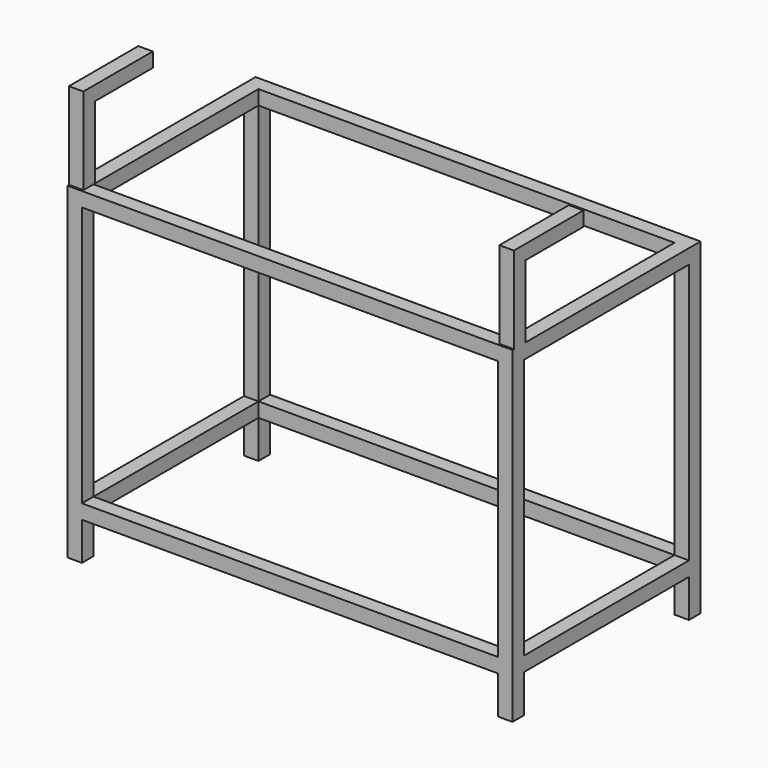
from build123d import *

# Parameters (mm, degrees)
F0_W          = 40
F0_H          = 40
F1_DEPTH      = 760
F1_DEPTH_BACK = 145
F2_W          = 1150
F2_H          = 40
F2_W_2        = 40
F2_H_2        = 565
F2_H_3        = 5
F3_DEPTH      = 40
F0_W_2        = 1150
F0_H_2        = 570
F4_DEPTH      = 40
F2_H_4        = 35
F5_DEPTH      = 240
F6_W          = 40
F6_H          = 40
F7_DEPTH      = 200
F8_W          = 40
F8_H          = 40
F9_DEPTH      = 200


with BuildPart() as f1:
    # F0 (on Top) → F1 (new body, two sides)
    with BuildSketch(Plane.XY) as f1_sk:
        with Locations((595, 305)):
            Rectangle(F0_W, F0_H)
    extrude(amount=F1_DEPTH)
    extrude(f1_sk.sketch, amount=-F1_DEPTH_BACK)



with BuildPart() as f1b:
    # F0 (on Top) → F1, piece 2 (new body, two sides)
    with BuildSketch(Plane.XY) as f1_2_sk:
        with Locations((-595, 305)):
            Rectangle(F0_W, F0_H)
    extrude(amount=F1_DEPTH)
    extrude(f1_2_sk.sketch, amount=-F1_DEPTH_BACK)


with BuildPart() as f1c:
    # F0 (on Top) → F1, piece 3 (new body, two sides)
    with BuildSketch(Plane.XY) as f1_3_sk:
        with Locations((-595, -305)):
            Rectangle(F0_W, F0_H)
    extrude(amount=F1_DEPTH)
    extrude(f1_3_sk.sketch, amount=-F1_DEPTH_BACK)


with BuildPart() as f1d:
    # F0 (on Top) → F1, piece 4 (new body, two sides)
    with BuildSketch(Plane.XY) as f1_4_sk:
        with Locations((595, -305)):
            Rectangle(F0_W, F0_H)
    extrude(amount=F1_DEPTH)
    extrude(f1_4_sk.sketch, amount=-F1_DEPTH_BACK)


with BuildPart() as f1_1:
    add(f1.part)

    add(f1b.part)  # F3 merges F1b

    add(f1c.part)  # F3 merges F1c

    add(f1d.part)  # F3 merges F1d
    # F2 (on face) → F3 (join)
    with BuildSketch(Plane.XY.offset(760)):
        with Locations((0, 305)):
            Rectangle(F2_W, F2_H)
        with Locations((595, 2.5)):
            Rectangle(F2_W_2, F2_H_2)
        Polygon((-575, -325), (575, -325), (575, -320), (575, -285), (-575, -285), (-575, -320), align=None)
        with Locations((-595, 2.5)):
            Rectangle(F2_W_2, F2_H_2)
        with Locations((-595, -282.5)):
            Rectangle(F2_W_2, F2_H_3)
        with Locations((595, -282.5)):
            Rectangle(F2_W_2, F2_H_3)
    extrude(amount=-F3_DEPTH)

    # F0 (on Top) → F4 (join)
    with BuildSketch(Plane.XY):
        with Locations((0, -305)):
            Rectangle(F0_W_2, F0_H)
        with Locations((595, 0)):
            Rectangle(F0_W, F0_H_2)
        with Locations((0, 305)):
            Rectangle(F0_W_2, F0_H)
        with Locations((-595, 0)):
            Rectangle(F0_W, F0_H_2)
    extrude(amount=-F4_DEPTH)

    # F2 (on face) → F5 (join)
    with BuildSketch(Plane.XY.offset(760)):
        with Locations((-595, -302.5)):
            Rectangle(F2_W_2, F2_H_4)
        with Locations((-595, -282.5)):
            Rectangle(F2_W_2, F2_H_3)
        with Locations((595, -302.5)):
            Rectangle(F2_W_2, F2_H_4)
        with Locations((595, -282.5)):
            Rectangle(F2_W_2, F2_H_3)
    extrude(amount=F5_DEPTH)

    # F6 (on face) → F7 (join)
    with BuildSketch(Plane(origin=(0, -280, 0), x_dir=(-1, 0, 0), z_dir=(0, 1, 0))):
        with Locations((-595, 980)):
            Rectangle(F6_W, F6_H)
    extrude(amount=F7_DEPTH)

    # F8 (on face) → F9 (join)
    with BuildSketch(Plane(origin=(0, -280, 0), x_dir=(-1, 0, 0), z_dir=(0, 1, 0))):
        with Locations((595, 980)):
            Rectangle(F8_W, F8_H)
    extrude(amount=F9_DEPTH)


solid = f1_1.part
